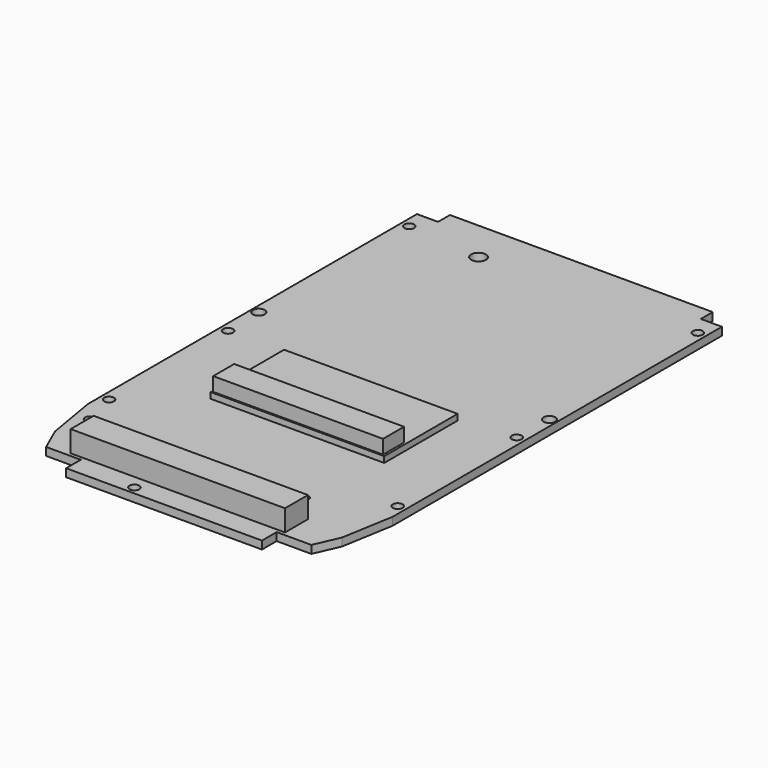
from build123d import *

# Parameters (mm, degrees)
SKETCH006_R   = 1
SKETCH006_R_2 = 1.2
SKETCH006_R_3 = 1.491082
PAD002_DEPTH  = 1.6
SKETCH033_W   = 5.831177
SKETCH033_H   = 20.949042
PAD019_DEPTH  = 5.5
PAD021_DEPTH  = 2
SKETCH053_W   = 19.104945
SKETCH053_H   = 22.868039
PAD026_DEPTH  = 2
SKETCH058_W   = 43.228985
SKETCH058_H   = 5.789597
PAD028_DEPTH  = 4.3
SKETCH110_W   = 3.54
SKETCH110_H   = 12.73
PAD057_DEPTH  = 3
FILLET018_R   = 1.7
SKETCH120_W   = 9
SKETCH120_H   = 4.2
PAD060_DEPTH  = 7
SKETCH121_W   = 35
SKETCH121_H   = 18.5
PAD061_DEPTH  = 1.2
SKETCH122_W   = 34.252625
SKETCH122_H   = 5.289647
PAD062_DEPTH  = 2.8


with BuildPart() as part:
    # Sketch006 → Pad002 (new body)
    with BuildSketch(Plane.XY.offset(3)):
        Polygon((30.75, 54.68), (30.75, -28.32), (28.95, -38.82), (26.75, -43.82), (19.75, -43.82), (19.75, -47.52), (-19.75, -47.52), (-19.75, -43.82), (-26.75, -43.82), (-28.95, -38.82), (-30.75, -28.32), (-30.75, 54.68), (-26.5, 54.68), (-26.5, 57.68), (26.5, 57.68), (26.5, 54.68), align=None)
        with Locations((-27.25, -32.12)):
            Circle(SKETCH006_R, mode=Mode.SUBTRACT)
        with Locations((15.75, -32)):
            Circle(SKETCH006_R, mode=Mode.SUBTRACT)
        with Locations((29.1, 50.68)):
            Circle(SKETCH006_R, mode=Mode.SUBTRACT)
        with Locations((-29.1, 50.68)):
            Circle(SKETCH006_R, mode=Mode.SUBTRACT)
        with Locations((-29.1, 5)):
            Circle(SKETCH006_R, mode=Mode.SUBTRACT)
        with Locations((-29.3, 13)):
            Circle(SKETCH006_R_2, mode=Mode.SUBTRACT)
        with Locations((29.3, 13)):
            Circle(SKETCH006_R_2, mode=Mode.SUBTRACT)
        with Locations((29.1, 5)):
            Circle(SKETCH006_R, mode=Mode.SUBTRACT)
        with Locations((-7.25, -45.92)):
            Circle(SKETCH006_R, mode=Mode.SUBTRACT)
        with Locations((-29.1, -25)):
            Circle(SKETCH006_R, mode=Mode.SUBTRACT)
        with Locations((29.1, -25)):
            Circle(SKETCH006_R, mode=Mode.SUBTRACT)
        with Locations((-14.007447, 49.274082)):
            Circle(SKETCH006_R_3, mode=Mode.SUBTRACT)
    extrude(amount=-PAD002_DEPTH)

    # Sketch033 (on Face30 of Pad002) → Pad019 (join)
    with BuildSketch(Plane(origin=(0, 0, 1.4), x_dir=(1, 0, 0), z_dir=(0, 0, -1))):
        with Locations((-22.462421, -27.118268)):
            Rectangle(SKETCH033_W, SKETCH033_H)
    extrude(amount=PAD019_DEPTH)

    # Sketch046 (on Face5 of Pad019) → Pad021 (join)
    with BuildSketch(Plane(origin=(0, 0, 1.4), x_dir=(1, 0, 0), z_dir=(0, 0, -1))):
        Polygon((21.00816, -56.937296), (21.00816, -41.937296), (6.00816, -41.937296), (6.00816, -56.937296), (6.00816, -59.937296), (17.00816, -59.937296), (17.00816, -56.937296), align=None)
    extrude(amount=PAD021_DEPTH)

    # Sketch053 (on Face5 of Pad021) → Pad026 (join)
    with BuildSketch(Plane(origin=(0, 0, 1.4), x_dir=(1, 0, 0), z_dir=(0, 0, -1))):
        with Locations((0.746086, -5.026741)):
            Rectangle(SKETCH053_W, SKETCH053_H)
    extrude(amount=PAD026_DEPTH)

    # Sketch058 (on Face4 of Pad026) → Pad028 (join)
    with BuildSketch(Plane.XY.offset(3)):
        with Locations((-0.757428, -40.205624)):
            Rectangle(SKETCH058_W, SKETCH058_H)
    extrude(amount=PAD028_DEPTH)

    # Sketch110 (on Face5 of Pad028) → Pad057 (join)
    with BuildSketch(Plane(origin=(0, 0, 1.4), x_dir=(1, 0, 0), z_dir=(0, 0, -1))):
        with Locations((20.398529, -31.503779)):
            Rectangle(SKETCH110_W, SKETCH110_H)
    extrude(amount=PAD057_DEPTH)

    # Fillet018
    fillet018_edges = [part.edges().sort_by_distance(p)[0] for p in [
        (18.628529, 25.138779, -0.1),
        (22.168529, 25.138779, -0.1),
        (22.168529, 37.868779, -0.1),
        (18.628529, 37.868779, -0.1),
    ]]
    fillet(fillet018_edges, radius=FILLET018_R)

    # Sketch120 (on Face1 of Fillet018) → Pad060 (join)
    with BuildSketch(Plane(origin=(0, 0, 1.4), x_dir=(1, 0, 0), z_dir=(0, 0, -1))):
        with Locations((-10.558947, 21.91)):
            Rectangle(SKETCH120_W, SKETCH120_H)
    extrude(amount=PAD060_DEPTH)

    # Sketch121 (on Face56 of Pad060) → Pad061 (join)
    with BuildSketch(Plane.XY.offset(3)):
        with Locations((0.75, -5.57)):
            Rectangle(SKETCH121_W, SKETCH121_H)
    extrude(amount=PAD061_DEPTH)

    # Sketch122 (on Face72 of Pad061) → Pad062 (join)
    with BuildSketch(Plane.XY.offset(4.2)):
        with Locations((0.639808, -11.874083)):
            Rectangle(SKETCH122_W, SKETCH122_H)
    extrude(amount=PAD062_DEPTH)


solid = part.part
